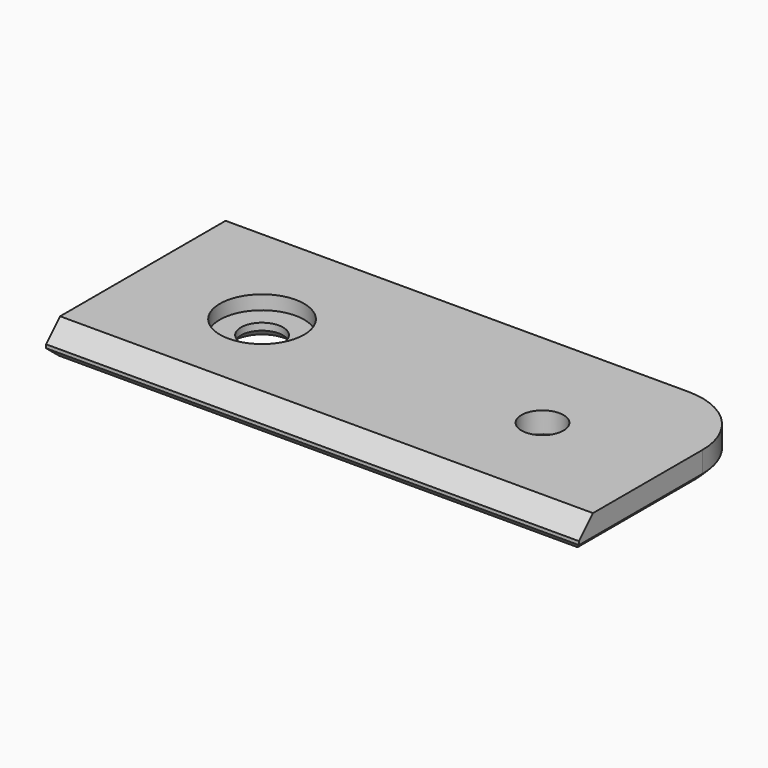
from build123d import *

# Parameters (mm, degrees)
F0_W     = 38
F0_H     = 16
F0_R     = 1.5
F1_DEPTH = 2
F2_SIZE  = 1.25
F4_R     = 5
F3_R     = 3
F3_R_2   = 1.5
F5_DEPTH = 1
F6_SIZE  = 0.5


with BuildPart() as f1:
    # F0 (on Top) → F1 (new body)
    with BuildSketch(Plane.XY):
        Rectangle(F0_W, F0_H)
        with Locations((-10, 0)):
            Circle(F0_R, mode=Mode.SUBTRACT)
        with Locations((10, 0)):
            Circle(F0_R, mode=Mode.SUBTRACT)
    extrude(amount=F1_DEPTH)

    # F2
    f2_edges = [f1.edges().sort_by_distance(p)[0] for p in [
        (0, -8, 2),
    ]]
    chamfer(f2_edges, length=F2_SIZE)

    # F4
    f4_edges = [f1.edges().sort_by_distance(p)[0] for p in [
        (19, 8, 1),
    ]]
    fillet(f4_edges, radius=F4_R)

    # F3 (on face) → F5 (cut)
    with BuildSketch(Plane.XY.offset(2)):
        with Locations((-10, 0)):
            Circle(F3_R)
        with Locations((-10, 0)):
            Circle(F3_R_2, mode=Mode.SUBTRACT)
    extrude(amount=-F5_DEPTH, mode=Mode.SUBTRACT)

    # F6
    f6_edges = [f1.edges().sort_by_distance(p)[0] for p in [
        (-2.5, 8, 0),
        (17.535534, 6.535534, 0),
        (-19, 0, 0),
        (19, -2.5, 0),
        (0, -8, 0),
        (-11.5, 0, 0),
        (8.5, 0, 0),
    ]]
    chamfer(f6_edges, length=F6_SIZE)


solid = f1.part
